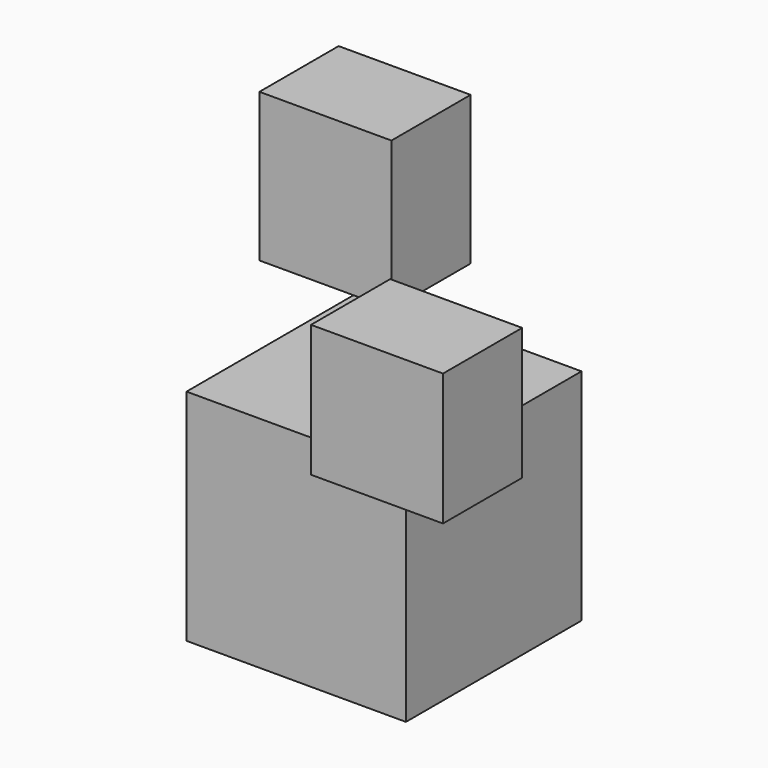
from build123d import *

# Parameters (mm, degrees)
SKETCH040_W  = 133
SKETCH040_H  = 133
PAD038_DEPTH = 66.5
PAD039_DEPTH = 5
SKETCH043_W  = 80
SKETCH043_H  = 60
PAD040_DEPTH = 90
PAD046_DEPTH = 5
SKETCH050_W  = 80
SKETCH050_H  = 60
PAD047_DEPTH = 80


with BuildPart() as part:
    # Sketch040 → Pad038 (new body, symmetric)
    with BuildSketch(Plane.XY):
        Rectangle(SKETCH040_W, SKETCH040_H)
    extrude(amount=PAD038_DEPTH, both=True)

    # Sketch041 (on Face6 of Pad038) → Pad039 (join)
    with BuildSketch(Plane.XY.offset(66.5)):
        with BuildLine():
            Line((-88.5, 88.5), (-66.5, 88.5))
            Line((-66.5, 88.5), (-66.5, 67.5))
            ThreePointArc((-67.5, 66.5), (-65.792893, 65.792893), (-66.5, 67.5))
            Line((-88.5, 66.5), (-67.5, 66.5))
            Line((-88.5, 66.5), (-88.5, 88.5))
        make_face()
    extrude(amount=PAD039_DEPTH)

    # Sketch043 (on Face13 of Pad039) → Pad040 (join)
    with BuildSketch(Plane.XY.offset(71.5)):
        with Locations((-77.5, 82.5)):
            Rectangle(SKETCH043_W, SKETCH043_H)
    extrude(amount=PAD040_DEPTH)

    # Sketch049 (on Face13 of Pad040) → Pad046 (join)
    with BuildSketch(Plane.XY.offset(66.5)):
        with BuildLine():
            Line((91, -66.5), (91, -91))
            Line((91, -91), (66.5, -91))
            Line((66.5, -69), (66.5, -91))
            ThreePointArc((69, -66.5), (64.732233, -64.732233), (66.5, -69))
            Line((69, -66.5), (91, -66.5))
        make_face()
    extrude(amount=PAD046_DEPTH)

    # Sketch050 (on Face23 of Pad046) → Pad047 (join)
    with BuildSketch(Plane.XY.offset(71.5)):
        with Locations((78.75, -73.75)):
            Rectangle(SKETCH050_W, SKETCH050_H)
    extrude(amount=PAD047_DEPTH)


solid = part.part
